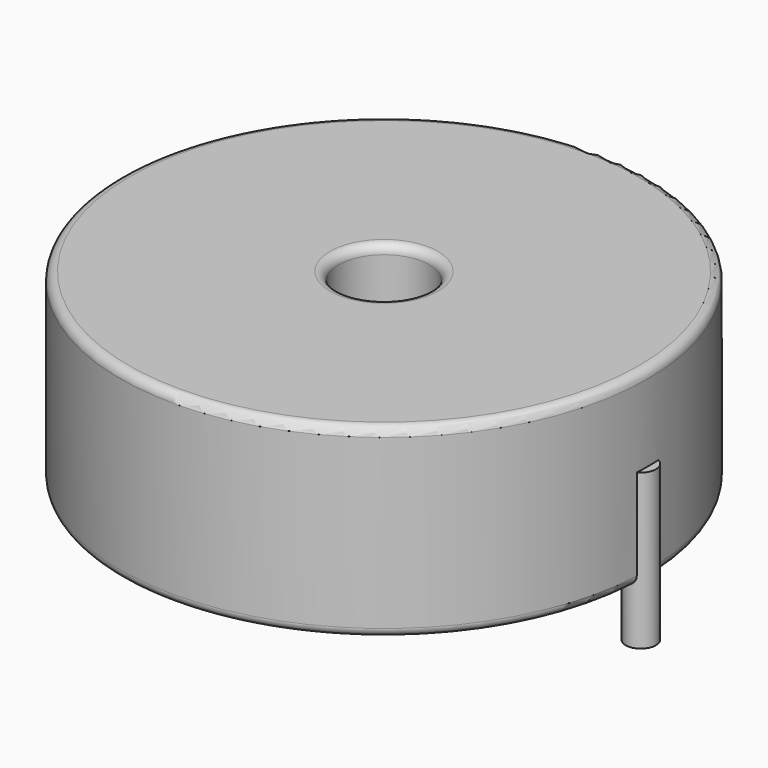
from build123d import *

# Parameters (mm, degrees)
SKETCH_R          = 14.9
SKETCH_R_2        = 2.55
PAD_DEPTH         = 10.5
FILLET_R          = 0.5
SKETCH001_R       = 0.85
PAD001_DEPTH      = 5.25
PAD001_DEPTH_BACK = 3.5


with BuildPart() as fillet_body:
    # Sketch → Pad (new body)
    with BuildSketch(Plane.XY.offset(0.1)):
        with Locations((14.5, 0)):
            Circle(SKETCH_R)
        with Locations((14.5, 0)):
            Circle(SKETCH_R_2, mode=Mode.SUBTRACT)
    extrude(amount=PAD_DEPTH)

    # Fillet
    fillet_edges = [fillet_body.edges().sort_by_distance(p)[0] for p in [
        (11.95, 0, 10.6),
        (-0.4, 0, 10.6),
        (-0.4, 0, 0.1),
    ]]
    fillet(fillet_edges, radius=FILLET_R)


with BuildPart() as obj1:
    # Sketch001 → Pad001 (new body, two sides)
    with BuildSketch(Plane.XY.offset(0.5)) as pad001_sk:
        Circle(SKETCH001_R)
        with Locations((29, 0)):
            Circle(SKETCH001_R)
    extrude(amount=PAD001_DEPTH)
    extrude(pad001_sk.sketch, amount=-PAD001_DEPTH_BACK)

    # obj1: union Fillet body
    add(fillet_body.part)


solid = obj1.part
